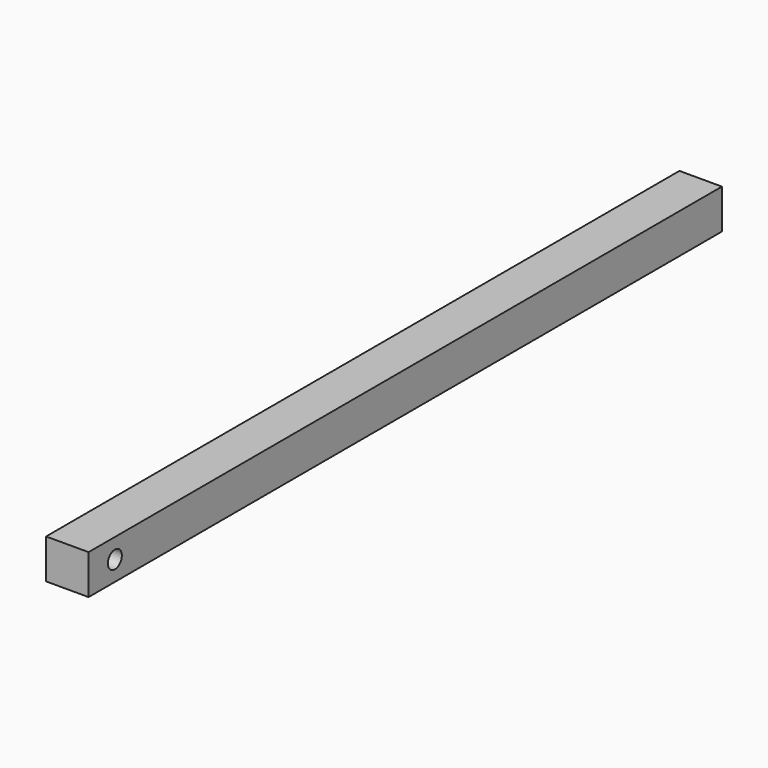
from build123d import *

# Parameters (mm, degrees)
F0_W     = 6.816726
F0_H     = 6.35
F1_DEPTH = 127
F2_R     = 1.4
F3_DEPTH = 6.817726


with BuildPart() as f1:
    # F0 (on Front) → F1 (new body)
    with BuildSketch(Plane.XZ):
        Rectangle(F0_W, F0_H)
    extrude(amount=F1_DEPTH)

    # F2 (on face) → F3 (cut, through all)
    with BuildSketch(Plane(origin=(-3.408363, 0, 0), x_dir=(0, -1, 0), z_dir=(-1, 0, 0))):
        with Locations((121.728033, 0)):
            Circle(F2_R)
    extrude(amount=-F3_DEPTH, mode=Mode.SUBTRACT)


solid = f1.part
